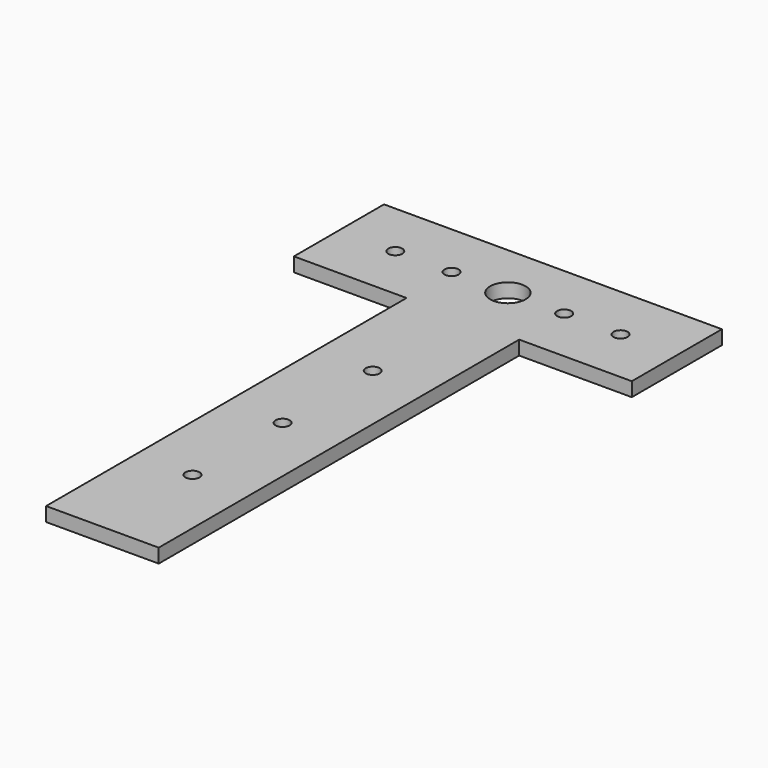
from build123d import *

# Parameters (mm, degrees)
F1_DEPTH = 3.175
F3_D     = 3.175
F5_D     = 8


with BuildPart() as f1:
    # F0 (on Top) → F1 (new body)
    with BuildSketch(Plane.XY):
        Polygon((0, 25.4), (0, 0), (25.4, 0), (25.4, -101.6), (50.8, -101.6), (50.8, 0), (76.2, 0), (76.2, 25.4), align=None)
    extrude(amount=F1_DEPTH)

    # F3 (through all)
    with Locations(Plane.XY.offset(3.175)):
        with Locations((12.7, 12.7), (25.4, 12.7), (50.8, 12.7), (63.5, 12.7), (38.1, -25.4), (38.1, -50.8), (38.1, -76.2)):
            Hole(F3_D / 2)

    # F5 (through all)
    with Locations(Plane.XY.offset(3.175)):
        with Locations((38.1, 12.7)):
            Hole(F5_D / 2)


solid = f1.part
